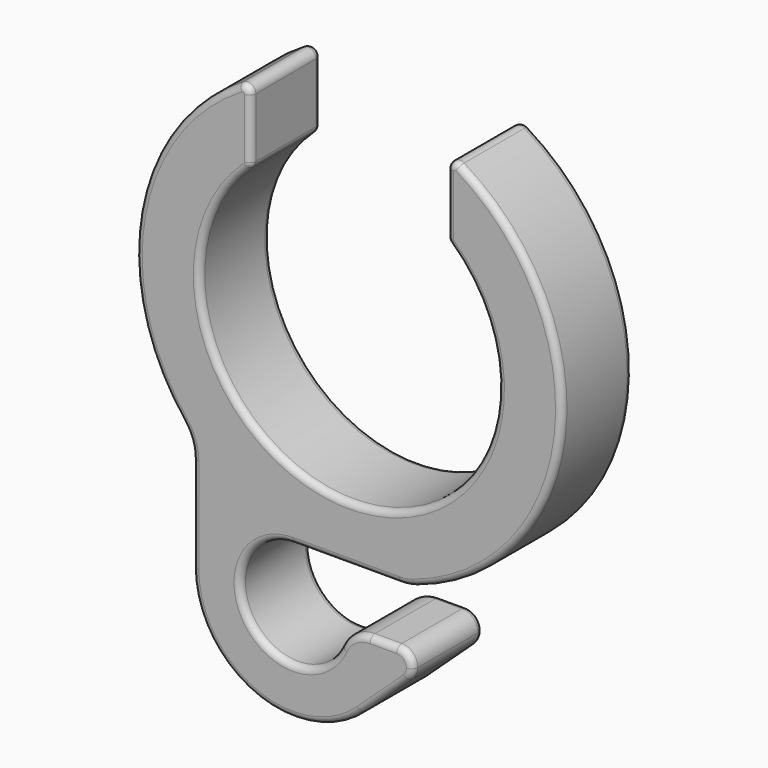
from build123d import *

# Parameters (mm, degrees)
F1_DEPTH = 5.5
F2_R     = 0.4


with BuildPart() as f1:
    # F0 (on Front) → F1 (new body)
    with BuildSketch(Plane.XZ):
        with BuildLine():
            ThreePointArc((6.312437, 6.89751), (0, -9.35), (-6.312437, 6.89751))
            ThreePointArc((-6.312437, 6.89751), (-6.192408, 7.064844), (-6.15, 7.266361))
            Line((-6.15, 7.266361), (-6.15, 10.995454))
            ThreePointArc((-6.15, 10.995454), (-6.404416, 11.430986), (-6.908755, 11.423292))
            ThreePointArc((-6.908755, 11.423292), (-13.139853, 2.3594), (-10.451376, -8.306096))
            ThreePointArc((-10.451376, -8.306096), (-9.967521, -9.184169), (-9.8, -10.172635))
            Line((-9.8, -10.172635), (-9.8, -16.15))
            ThreePointArc((-9.8, -16.15), (-6.019894, -21.924092), (0.78417, -20.769079))
            Line((0.78417, -20.769079), (3.680027, -18.083187))
            ThreePointArc((3.680027, -18.083187), (3.916523, -17.749983), (4, -17.35))
            ThreePointArc((4, -17.35), (3.707107, -16.642893), (3, -16.35))
            Line((3, -16.35), (1.321825, -16.35))
            ThreePointArc((1.321825, -16.35), (0.240247, -16.667684), (-0.497731, -17.519811))
            ThreePointArc((-0.497731, -17.519811), (-6.275822, -17.934604), (-3.5, -12.85))
            Line((-3.5, -12.85), (3.17805, -12.85))
            ThreePointArc((3.17805, -12.85), (3.644302, -12.813547), (4.099224, -12.705072))
            ThreePointArc((4.099224, -12.705072), (13.260407, -1.544055), (6.908755, 11.423292))
            ThreePointArc((6.908755, 11.423292), (6.404416, 11.430986), (6.15, 10.995454))
            Line((6.15, 10.995454), (6.15, 7.266361))
            ThreePointArc((6.15, 7.266361), (6.192408, 7.064844), (6.312437, 6.89751))
        make_face()
    extrude(amount=F1_DEPTH)

    # F2
    f2_edges = [f1.edges().sort_by_distance(p)[0] for p in [
        (0, -5.5, -9.35),
        (-6.192408, -5.5, 7.064844),
        (-6.15, -5.5, 9.130907),
        (-6.404416, -5.5, 11.430986),
        (-13.139853, -5.5, 2.3594),
        (-9.967521, -5.5, -9.184169),
        (-9.8, -5.5, -13.161317),
        (-6.019894, -5.5, -21.924092),
        (2.232099, -5.5, -19.426133),
        (3.93091, -5.5, -16.984752),
        (2.160913, -5.5, -16.35),
        (0.240247, -5.5, -16.667684),
        (-6.275822, -5.5, -17.934604),
        (-0.160975, -5.5, -12.85),
        (3.644302, -5.5, -12.813547),
        (13.260407, -5.5, -1.544055),
        (6.404416, -5.5, 11.430986),
        (6.15, -5.5, 9.130907),
        (6.192408, -5.5, 7.064844),
        (0, 0, -9.35),
        (-6.192408, 0, 7.064844),
        (-6.15, 0, 9.130907),
        (-6.404416, 0, 11.430986),
        (-13.139853, 0, 2.3594),
        (-9.967521, 0, -9.184169),
        (-9.8, 0, -13.161317),
        (-6.019894, 0, -21.924092),
        (2.232099, 0, -19.426133),
        (3.93091, 0, -16.984752),
        (2.160913, 0, -16.35),
        (0.240247, 0, -16.667684),
        (-6.275822, 0, -17.934604),
        (-0.160975, 0, -12.85),
        (3.644302, 0, -12.813547),
        (13.260407, 0, -1.544055),
        (6.404416, 0, 11.430986),
        (6.15, 0, 9.130907),
        (6.192408, 0, 7.064844),
    ]]
    fillet(f2_edges, radius=F2_R)


solid = f1.part
